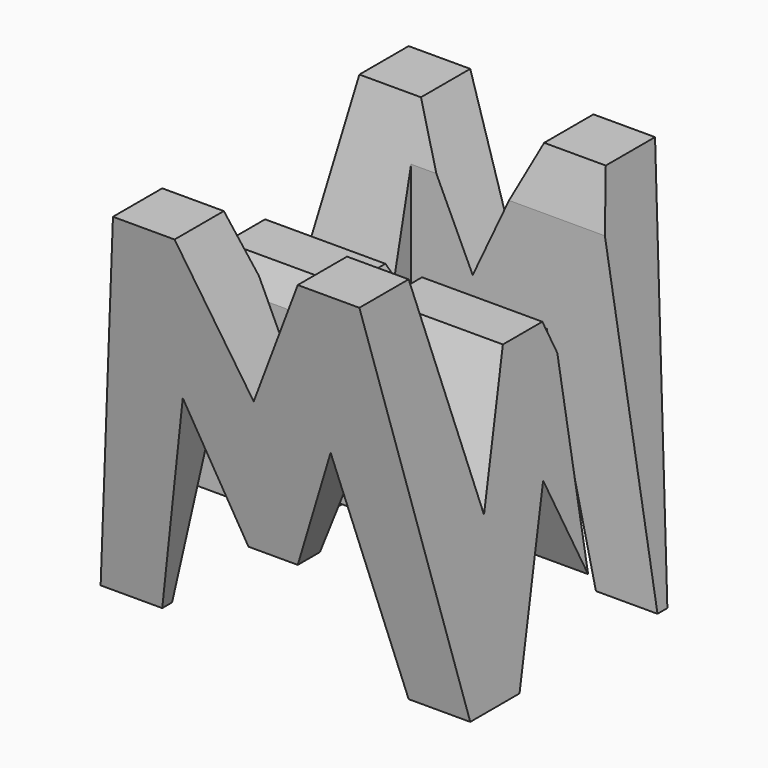
from build123d import *

# Parameters (mm, degrees)
F0_W      = 38.1
F0_H      = 38.1
F1_DEPTH  = 38.1
F6_DEPTH  = 38.1
F8_DEPTH  = 38.1
F9_W      = 25.4
F9_H      = 7.62
F10_DEPTH = 38.1


with BuildPart() as f1:
    # F0 (on Front) → F1 (new body)
    with BuildSketch(Plane.XZ):
        with Locations((19.05, 19.05)):
            Rectangle(F0_W, F0_H)
    extrude(amount=F1_DEPTH)

    # F5 (on offset) → F6 (cut)
    with BuildSketch(Plane.YZ.offset(38.1)):
        Polygon((-11.43, 15.875), (-6.35, 38.1), (-31.75, 38.1), (-26.67, 15.875), (-21.59, 28.575), (-16.51, 28.575), align=None)
        Polygon((-31.75, 0), (-38.1, 38.1), (-38.1, 0), align=None)
        Polygon((-6.35, 0), (0, 0), (0, 38.1), align=None)
        Polygon((-25.4, 0), (-12.7, 0), (-19.05, 15.875), align=None)
    extrude(amount=-F6_DEPTH, mode=Mode.SUBTRACT)

    # F7 (on offset) → F8 (cut)
    with BuildSketch(Plane.XZ.offset(38.1)):
        Polygon((25.4, 38.1), (12.7, 38.1), (19.05, 24.545955), align=None)
        Polygon((11.43, 22.225), (6.35, 0), (31.75, 0), (26.67, 22.225), (21.59, 9.525), (16.51, 9.525), align=None)
        Polygon((31.75, 38.1), (38.1, 0), (38.1, 38.1), align=None)
        Polygon((0, 38.1), (0, 0), (6.35, 38.1), align=None)
    extrude(amount=-F8_DEPTH, mode=Mode.SUBTRACT)

    # F9 (on offset) → F10 (cut)
    with BuildSketch(Plane.XY.offset(38.1)):
        with Locations((25.4, -11.43)):
            Rectangle(F9_W, F9_H)
        with Locations((12.7, -26.67)):
            Rectangle(F9_W, F9_H)
    extrude(amount=-F10_DEPTH, mode=Mode.SUBTRACT)


solid = f1.part
